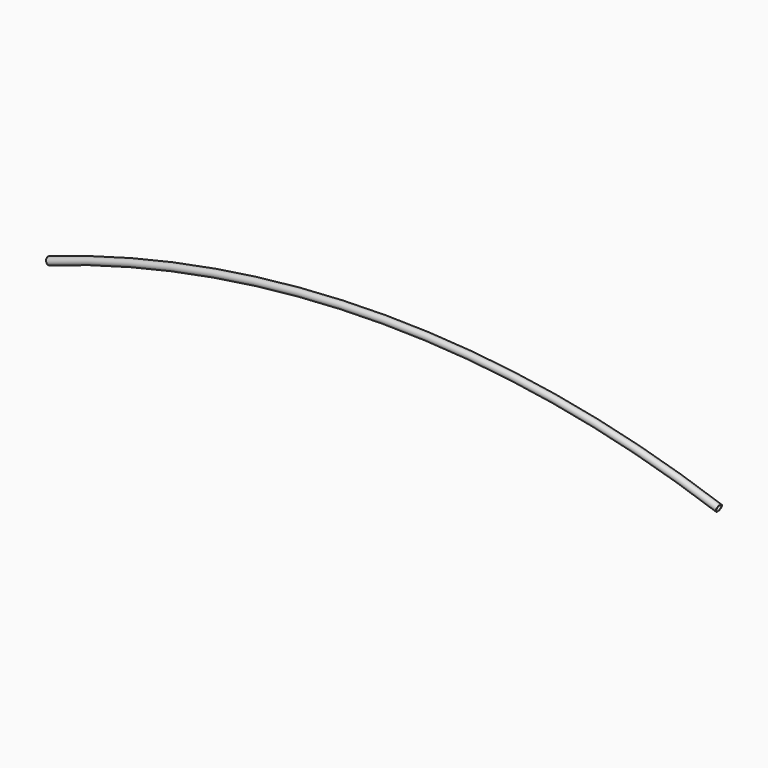
from build123d import *

# Parameters (mm, degrees)
F2_R   = 12.5
F2_R_2 = 10.5


with BuildPart() as f3:
    # F3: sweep along a path in F0
    with BuildLine(Plane.XZ) as f3_path:
        ThreePointArc((1170, 0), (0, 200), (-1170, 0))
    # F2 (on face) → F3 (sweep)
    with BuildSketch(Plane(origin=(-1040.902679, 0, -366.575705), x_dir=(0, -1, 0), z_dir=(-0.943218, 0, -0.332174))):
        with Locations((0, 388.643623)):
            Circle(F2_R)
        with Locations((0, 388.643623)):
            Circle(F2_R_2, mode=Mode.SUBTRACT)
    sweep(path=f3_path.line)


solid = f3.part
